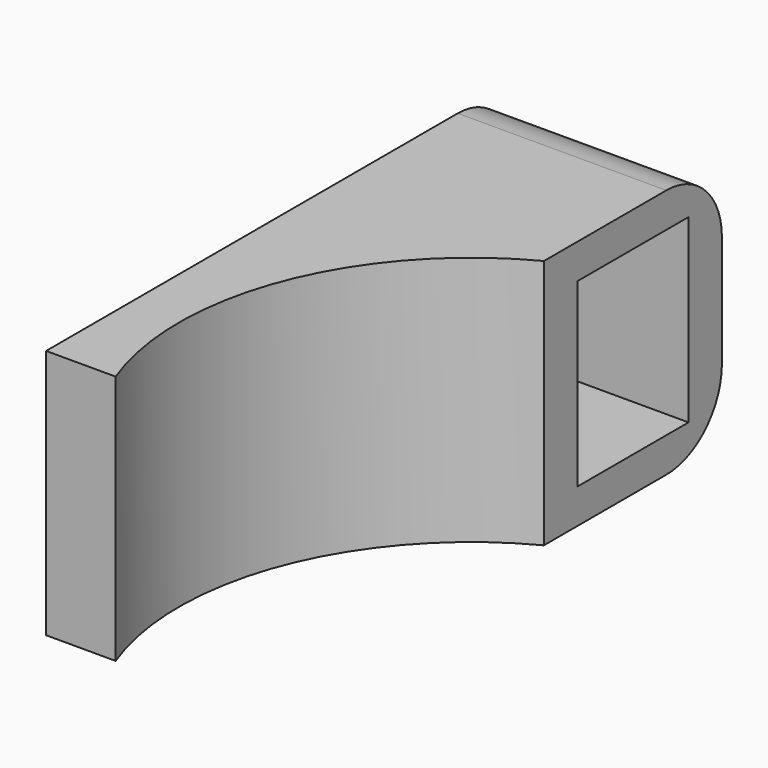
from build123d import *

# Parameters (mm, degrees)
F0_W     = 15
F0_H     = 12
F1_DEPTH = 18
F2_W     = 10
F2_H     = 13
F3_DEPTH = 25
F4_R     = 5


with BuildPart() as f1:
    # F0 (on Top) → F1 (new body)
    with BuildSketch(Plane.XY):
        with BuildLine():
            Line((0, 30), (0, 0))
            Line((0, 0), (5, 0))
            ThreePointArc((5, 0), (5.06842, 14.896762), (15, 26))
            Line((15, 26), (15, 30))
            Line((15, 30), (0, 30))
        make_face()
        with Locations((7.5, 36)):
            Rectangle(F0_W, F0_H)
    extrude(amount=F1_DEPTH)

    # F2 (on face) → F3 (cut)
    with BuildSketch(Plane.YZ.offset(15)):
        with Locations((34, 9)):
            Rectangle(F2_W, F2_H)
    extrude(amount=-F3_DEPTH, mode=Mode.SUBTRACT)

    # F4
    f4_edges = [f1.edges().sort_by_distance(p)[0] for p in [
        (7.5, 42, 18),
        (7.5, 42, 0),
    ]]
    fillet(f4_edges, radius=F4_R)


solid = f1.part
